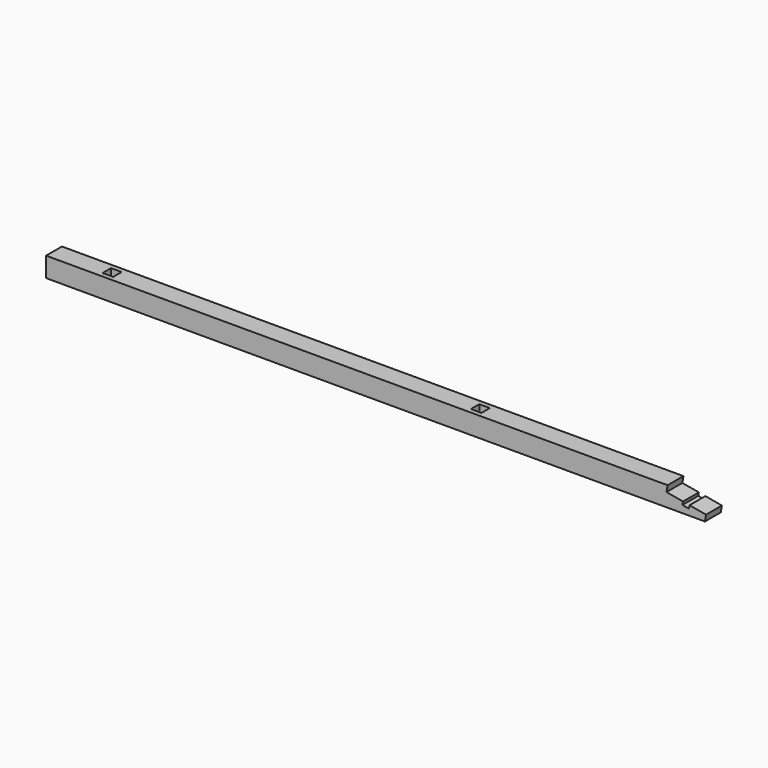
from build123d import *

# Parameters (mm, degrees)
F0_W     = 150
F0_H     = 150
F1_DEPTH = 5000
F3_DEPTH = 150.001
F4_W     = 80
F4_H     = 80
F5_DEPTH = 150


with BuildPart() as f1:
    # F0 (on Right) → F1 (new body)
    with BuildSketch(Plane.YZ):
        Rectangle(F0_W, F0_H)
    extrude(amount=F1_DEPTH)

    # F2 (on face) → F3 (cut, through all)
    with BuildSketch(Plane.XZ.offset(75)):
        Polygon((5000, -75), (5000, -26.449047), (4991.439157, -75), align=None)
        Polygon((5050, 75), (5000, 75), (5000, -26.449047), (5000, -75), (5050, -75), align=None)
        Polygon((4874.620194, -4.341204), (4825.379806, 4.341204), (4821.038602, -20.278989), (4870.278989, -28.961398), align=None)
        Polygon((5000, 75), (4708.560843, 75), (4700, 26.449047), (4825.379806, 4.341204), (4874.620194, -4.341204), (5000, -26.449047), align=None)
    extrude(amount=-F3_DEPTH, mode=Mode.SUBTRACT)

    # F4 (on face) → F5 (cut, through all)
    with BuildSketch(Plane.XY.offset(75)):
        with Locations((440, 0)):
            Rectangle(F4_W, F4_H)
        with Locations((3230, 0)):
            Rectangle(F4_W, F4_H)
    extrude(amount=-F5_DEPTH, mode=Mode.SUBTRACT)


solid = f1.part
